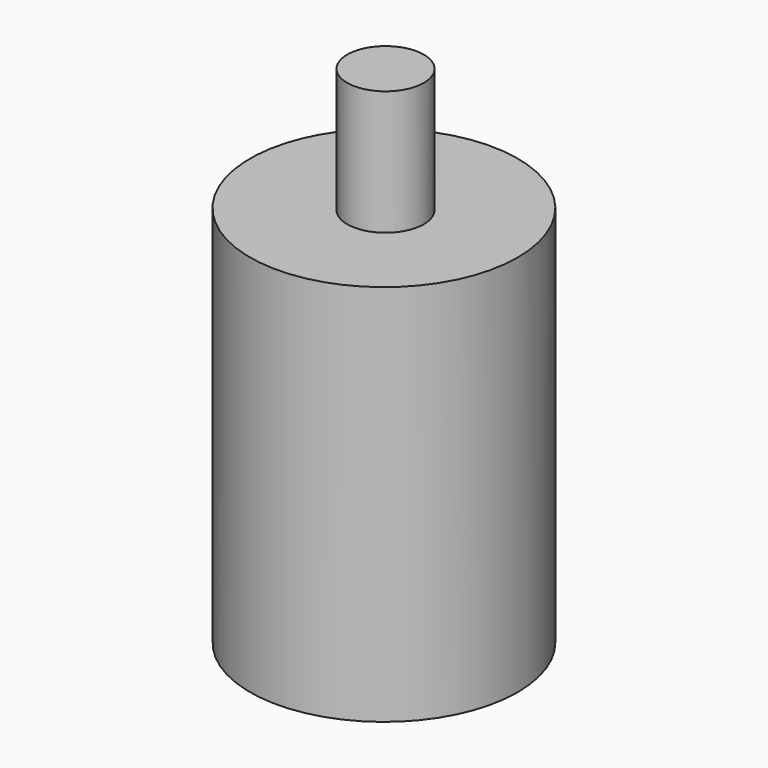
from build123d import *

# Parameters (mm, degrees)
F0_R     = 4.713764
F1_DEPTH = 13.47671
F2_R     = 1.348864
F3_DEPTH = 17.85872


with BuildPart() as f1:
    # F0 (on Top) → F1 (new body)
    with BuildSketch(Plane.XY):
        with Locations((-41.432403, 24.803471)):
            Circle(F0_R)
    extrude(amount=F1_DEPTH)

    # F2 (on Top) → F3 (join)
    with BuildSketch(Plane.XY):
        with Locations((-41.320283, 24.733773)):
            Circle(F2_R)
    extrude(amount=F3_DEPTH)


solid = f1.part
